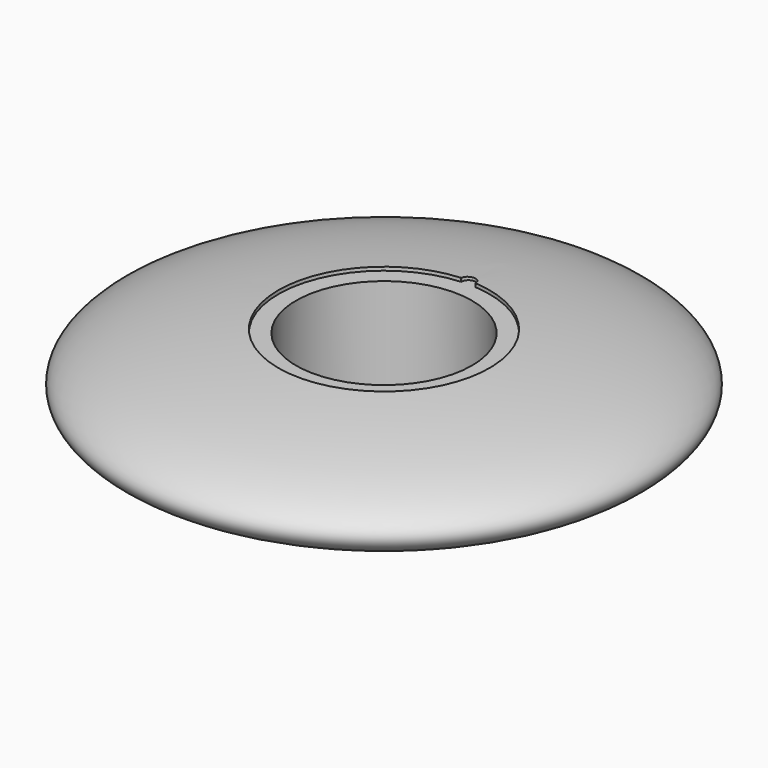
from build123d import *

# Parameters (mm, degrees)
F2_R     = 25
F4_DEPTH = 27.4954541697
F5_DEPTH = 1
F7_DEPTH = 1


with BuildPart() as f1:
    # F0 (on Front) → F1 (revolve)
    with BuildSketch(Plane.XZ):
        with BuildLine():
            Line((0, 13.7477270849), (-30, 13.7477270849))
            add(Edge.make_bspline(
                [(-30, 13.7477270849), (-187.5, 0), (-30, -13.7477270849)],
                knots=[1.9823131729, 1.9823131729, 1.9823131729, 4.3008721343, 4.3008721343, 4.3008721343], degree=2, weights=[1, 0.4, 1]))
            Line((-30, -13.7477270849), (0, -13.7477270849))
            Line((0, -13.7477270849), (0, 13.7477270849))
        make_face()
    revolve(axis=Axis((0, 0, 0), (0, 0, 1)))

    # F2 (on face) → F4 (cut, through all)
    with BuildSketch(Plane.XY.offset(13.7477270849)):
        Circle(F2_R)
    extrude(amount=-F4_DEPTH, mode=Mode.SUBTRACT)

    # F5 (cut): a face of the model
    f5_faces = [f1.faces().sort_by_distance(p)[0] for p in [
        (29.1514718626, 0, 13.7477270849),
    ]]
    extrude(f5_faces, amount=-F5_DEPTH, mode=Mode.SUBTRACT)

    # F6 (on 3pt) → F7 (cut)
    with BuildSketch(Plane(origin=(0, 0, 13.7477270849), x_dir=(1, 0, 0), z_dir=(0, 0, -1))):
        with BuildLine():
            ThreePointArc((1.9988885801, -29.9333333333), (0, -30), (-1.9988885801, -29.9333333333))
            ThreePointArc((-1.9988885801, -29.9333333333), (0, -32), (1.9988885801, -29.9333333333))
        make_face()
    extrude(amount=F7_DEPTH, mode=Mode.SUBTRACT)


solid = f1.part
